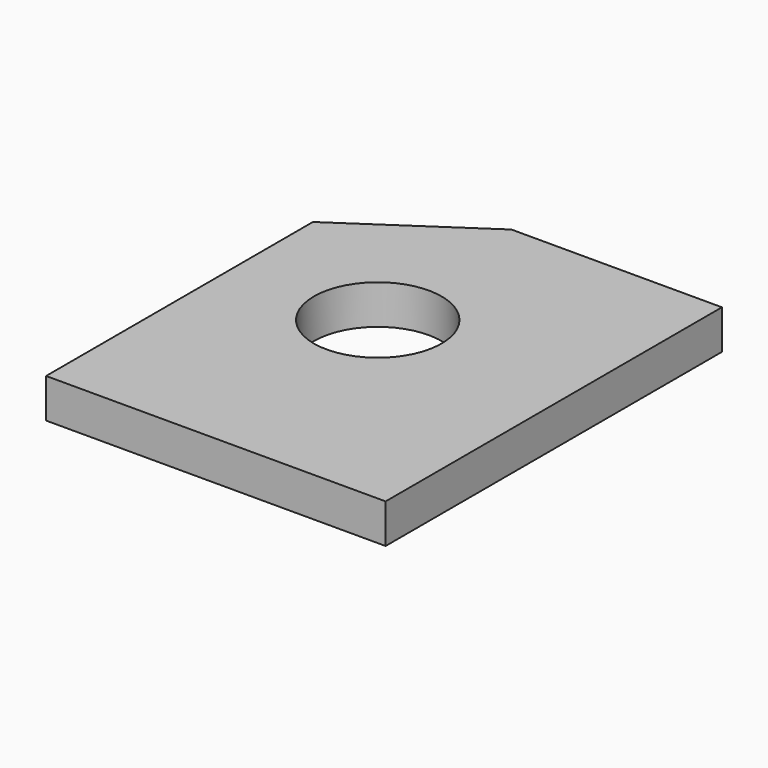
from build123d import *

# Parameters (mm, degrees)
F1_DEPTH = 6.35
F2_D     = 20.6375


with BuildPart() as f1:
    # F0 (on Top) → F1 (new body)
    with BuildSketch(Plane.XY):
        Polygon((43.6617064791, 67.9488546303), (9.638747696, 67.9488546303), (-11.2194608056, 53.8974311782), (-11.2194608056, 0), (43.6617064791, 0), align=None)
    extrude(amount=F1_DEPTH)

    # F2 (through all)
    with Locations(Plane(origin=(0, 0, 0), x_dir=(1, 0, 0), z_dir=(0, 0, -1))):
        with Locations((11.9117064791, -38.1)):
            Hole(F2_D / 2)


solid = f1.part
